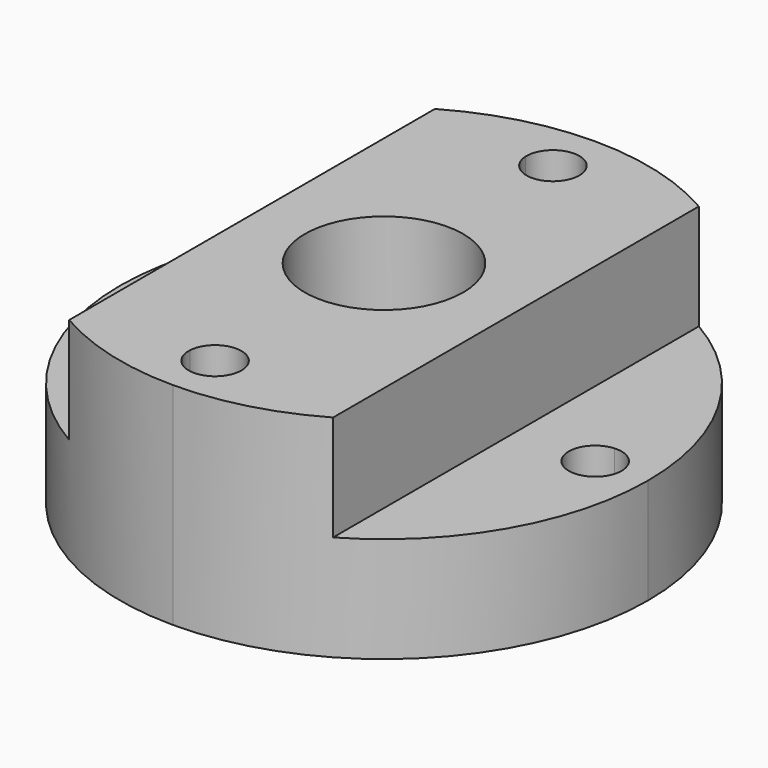
from build123d import *

# Parameters (mm, degrees)
F0_W     = 31.75
F0_H     = 12.7
F1_DEPTH = 63.5
F3_DEPTH = 25.401
F2_R     = 9.525
F4_DEPTH = 25.401


with BuildPart() as f1:
    # F0 (on Front) → F1 (new body)
    with BuildSketch(Plane.XZ):
        Polygon((0, 12.7), (0, 0), (63.5, 0), (63.5, 12.7), (47.625, 12.7), (15.875, 12.7), align=None)
        with Locations((31.75, 19.05)):
            Rectangle(F0_W, F0_H)
    extrude(amount=F1_DEPTH)

    # F2 (on face) → F3 (cut, through all)
    with BuildSketch(Plane(origin=(0, 0, 0), x_dir=(1, 0, 0), z_dir=(0, 0, -1))):
        with BuildLine():
            ThreePointArc((0, 31.75), (9.2993596973, 54.2006403027), (31.75, 63.5))
            Line((31.75, 63.5), (0, 63.5))
            Line((0, 63.5), (0, 31.75))
        make_face()
        with BuildLine():
            ThreePointArc((31.75, 63.5), (54.2006403027, 54.2006403027), (63.5, 31.75))
            Line((63.5, 31.75), (63.5, 63.5))
            Line((63.5, 63.5), (31.75, 63.5))
        make_face()
        with BuildLine():
            Line((0, 0), (31.75, 0))
            ThreePointArc((31.75, 0), (9.2993596973, 9.2993596973), (0, 31.75))
            Line((0, 31.75), (0, 0))
        make_face()
        with BuildLine():
            Line((63.5, 0), (63.5, 31.75))
            ThreePointArc((63.5, 31.75), (54.2006403027, 9.2993596973), (31.75, 0))
            Line((31.75, 0), (63.5, 0))
        make_face()
    extrude(amount=-F3_DEPTH, mode=Mode.SUBTRACT)

    # F2 (on face) → F4 (cut, through all)
    with BuildSketch(Plane(origin=(0, 0, 0), x_dir=(1, 0, 0), z_dir=(0, 0, -1))):
        with BuildLine():
            ThreePointArc((28.5812072396, 56.9515625), (31.75, 57.15), (34.9187927604, 56.9515625))
            ThreePointArc((34.9187927604, 56.9515625), (34.9234478107, 57.0507327204), (34.925, 57.15))
            ThreePointArc((34.925, 57.15), (31.6507327204, 60.3234478107), (28.5812072396, 56.9515625))
        make_face()
        with BuildLine():
            ThreePointArc((28.5812072396, 56.9515625), (31.75, 53.975), (34.9187927604, 56.9515625))
            ThreePointArc((34.9187927604, 56.9515625), (31.75, 57.15), (28.5812072396, 56.9515625))
        make_face()
        with BuildLine():
            ThreePointArc((9.525, 31.75), (8.6641590333, 33.9237739001), (6.5484375, 34.9187927604))
            ThreePointArc((6.5484375, 34.9187927604), (6.35, 31.75), (6.5484375, 28.5812072396))
            ThreePointArc((6.5484375, 28.5812072396), (8.6641590333, 29.5762260999), (9.525, 31.75))
        make_face()
        with BuildLine():
            ThreePointArc((6.5484375, 28.5812072396), (6.35, 31.75), (6.5484375, 34.9187927604))
            ThreePointArc((6.5484375, 34.9187927604), (3.175, 31.75), (6.5484375, 28.5812072396))
        make_face()
        with BuildLine():
            ThreePointArc((34.925, 6.35), (34.9234478107, 6.4492672796), (34.9187927604, 6.5484375))
            ThreePointArc((34.9187927604, 6.5484375), (31.75, 6.35), (28.5812072396, 6.5484375))
            ThreePointArc((28.5812072396, 6.5484375), (31.6507327204, 3.1765521893), (34.925, 6.35))
        make_face()
        with BuildLine():
            ThreePointArc((28.5812072396, 6.5484375), (31.75, 6.35), (34.9187927604, 6.5484375))
            ThreePointArc((34.9187927604, 6.5484375), (31.75, 9.525), (28.5812072396, 6.5484375))
        make_face()
        with BuildLine():
            ThreePointArc((56.9515625, 34.9187927604), (57.1003420835, 33.3375), (57.15, 31.75))
            ThreePointArc((57.15, 31.75), (57.1003420835, 30.1625), (56.9515625, 28.5812072396))
            ThreePointArc((56.9515625, 28.5812072396), (59.3237739001, 29.4358409667), (60.325, 31.75))
            ThreePointArc((60.325, 31.75), (59.3237739001, 34.0641590333), (56.9515625, 34.9187927604))
        make_face()
        with BuildLine():
            ThreePointArc((56.9515625, 28.5812072396), (57.1003420835, 30.1625), (57.15, 31.75))
            ThreePointArc((57.15, 31.75), (57.1003420835, 33.3375), (56.9515625, 34.9187927604))
            ThreePointArc((56.9515625, 34.9187927604), (53.975, 31.75), (56.9515625, 28.5812072396))
        make_face()
        with Locations((31.75, 31.75)):
            Circle(F2_R)
    extrude(amount=-F4_DEPTH, mode=Mode.SUBTRACT)


solid = f1.part
